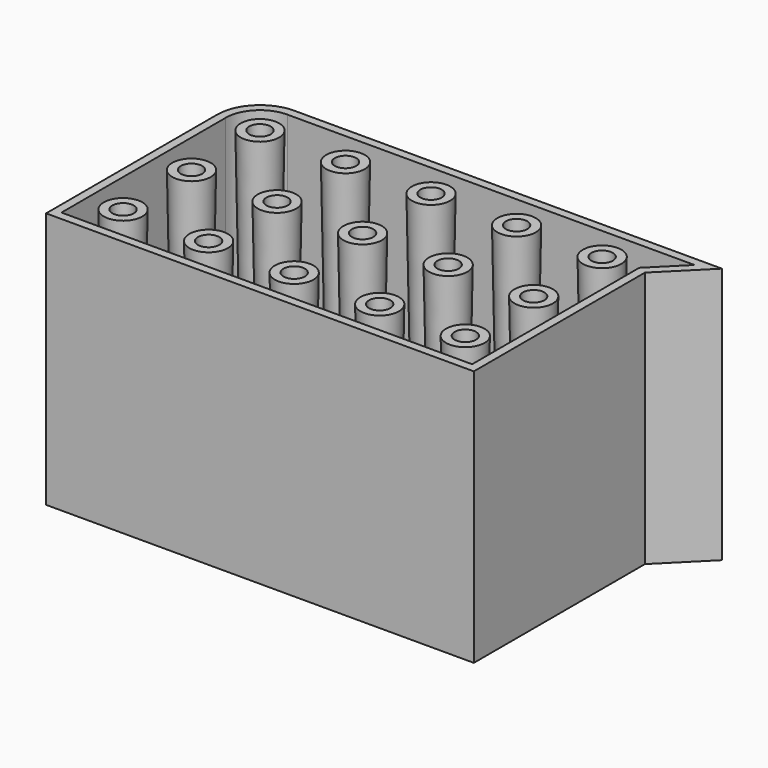
from build123d import *

# Parameters (mm, degrees)
F1_DEPTH = 76.2
F2_R     = 3.175
F3_DEPTH = 76.201
F3_TAPER = 1
F4_T     = -2.54


with BuildPart() as f1:
    # F0 (on Top) → F1 (new body)
    with BuildSketch(Plane.XY):
        with BuildLine():
            Line((-63.5, -38.1), (63.5, -38.1))
            Line((63.5, -38.1), (63.5, 25.4))
            Line((63.5, 25.4), (76.2, 38.1))
            Line((76.2, 38.1), (-50.8, 38.1))
            ThreePointArc((-50.8, 38.1), (-59.7802561211, 34.3802561211), (-63.5, 25.4))
            Line((-63.5, 25.4), (-63.5, -38.1))
        make_face()
    extrude(amount=-F1_DEPTH)

    # F2 (on face) → F3 (cut, through all)
    with BuildSketch(Plane.XY):
        with Locations((-50.8, 25.4)):
            Circle(F2_R)
        with Locations((-50.8, 0)):
            Circle(F2_R)
        with Locations((-50.8, -25.4)):
            Circle(F2_R)
        with Locations((-25.4, 25.4)):
            Circle(F2_R)
        with Locations((-25.4, 0)):
            Circle(F2_R)
        with Locations((-25.4, -25.4)):
            Circle(F2_R)
        with Locations((0, 25.4)):
            Circle(F2_R)
        Circle(F2_R)
        with Locations((0, -25.4)):
            Circle(F2_R)
        with Locations((25.4, 25.4)):
            Circle(F2_R)
        with Locations((25.4, 0)):
            Circle(F2_R)
        with Locations((25.4, -25.4)):
            Circle(F2_R)
        with Locations((50.8, 25.4)):
            Circle(F2_R)
        with Locations((50.8, 0)):
            Circle(F2_R)
        with Locations((50.8, -25.4)):
            Circle(F2_R)
    extrude(amount=-F3_DEPTH, taper=F3_TAPER, mode=Mode.SUBTRACT)

    # F4
    f4_openings = [f1.faces().sort_by_distance(p)[0] for p in [
        (0, -36.508695, 0),
    ]]
    offset(amount=F4_T, openings=f4_openings, kind=Kind.INTERSECTION)


solid = f1.part
